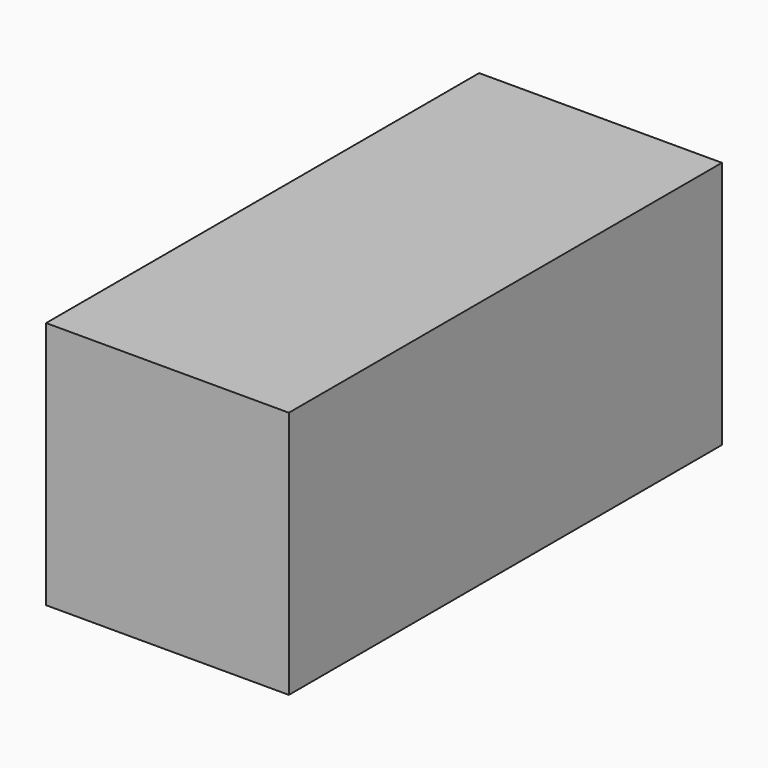
from build123d import *

# Parameters (mm, degrees)
F0_W     = 11.212748
F0_H     = 11.473511
F1_DEPTH = 30.8
F2_DEPTH = 25


with BuildPart() as f1:
    # F0 (on Front) → F1 (new body)
    with BuildSketch(Plane.XZ):
        with Locations((-45.502899, 13.559603)):
            Rectangle(F0_W, F0_H)
    extrude(amount=F1_DEPTH)

    # F0 (on Front) → F2 (intersect)
    with BuildSketch(Plane.XZ):
        with Locations((-45.502899, 13.559603)):
            Rectangle(F0_W, F0_H)
    extrude(amount=F2_DEPTH, mode=Mode.INTERSECT)


solid = f1.part
